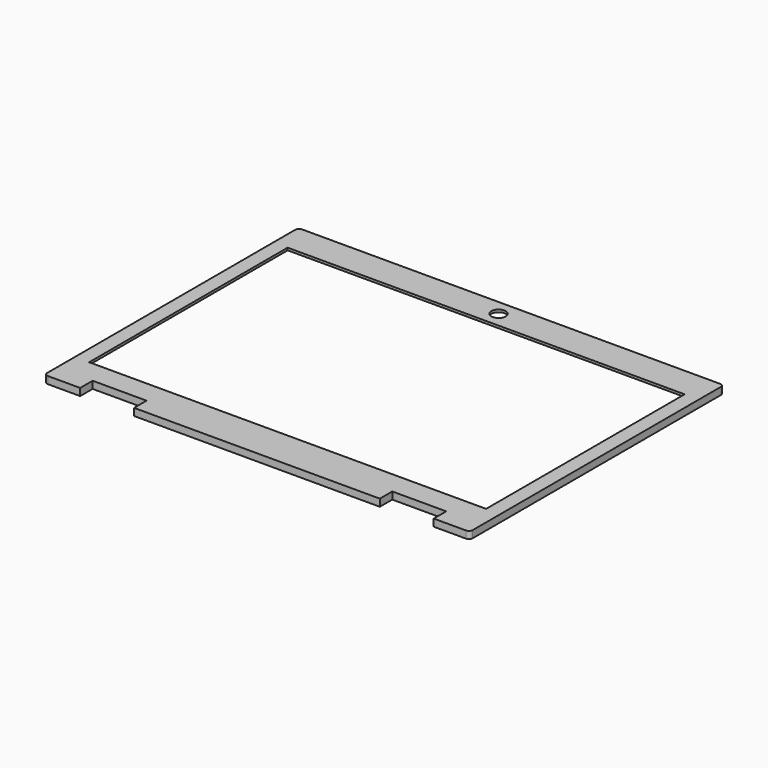
from build123d import *

# Parameters (mm, degrees)
F0_W     = 331.2
F0_H     = 207
F0_R     = 6
F1_DEPTH = 2
F2_R     = 2.5
F2_R_2   = 1.5
F3_DEPTH = 5
F5_DEPTH = 4


with BuildPart() as f1:
    # F0 (on Top) → F1 (new body)
    with BuildSketch(Plane.XY):
        with BuildLine():
            ThreePointArc((177.5, 129.5), (176.62132, 131.62132), (174.5, 132.5))
            Line((174.5, 132.5), (-174.5, 132.5))
            ThreePointArc((-174.5, 132.5), (-176.62132, 131.62132), (-177.5, 129.5))
            Line((-177.5, 129.5), (-177.5, -129.5))
            ThreePointArc((-177.5, -129.5), (-176.62132, -131.62132), (-174.5, -132.5))
            Line((-174.5, -132.5), (-147.5, -132.5))
            Line((-147.5, -132.5), (-147.5, -119.5))
            Line((-147.5, -119.5), (-102.5, -119.5))
            Line((-102.5, -119.5), (-102.5, -132.5))
            Line((-102.5, -132.5), (102.5, -132.5))
            Line((102.5, -132.5), (102.5, -119.5))
            Line((102.5, -119.5), (147.5, -119.5))
            Line((147.5, -119.5), (147.5, -132.5))
            Line((147.5, -132.5), (174.5, -132.5))
            ThreePointArc((174.5, -132.5), (176.62132, -131.62132), (177.5, -129.5))
            Line((177.5, -129.5), (177.5, 129.5))
        make_face()
        with Locations((0, 3)):
            Rectangle(F0_W, F0_H, mode=Mode.SUBTRACT)
        with Locations((0, 119.5)):
            Circle(F0_R, mode=Mode.SUBTRACT)
    extrude(amount=F1_DEPTH)

    # F2 (on face) → F3 (join)
    with BuildSketch(Plane(origin=(0, 0, 0), x_dir=(1, 0, 0), z_dir=(0, 0, -1))):
        with Locations((-169.5, 117.5)):
            Circle(F2_R)
        with Locations((-169.5, 117.5)):
            Circle(F2_R_2, mode=Mode.SUBTRACT)
        with Locations((168, 117.5)):
            Circle(F2_R)
        with Locations((168, 117.5)):
            Circle(F2_R_2, mode=Mode.SUBTRACT)
        with Locations((-169.5, -127.5)):
            Circle(F2_R)
        with Locations((-169.5, -127.5)):
            Circle(F2_R_2, mode=Mode.SUBTRACT)
        with Locations((168, -127.5)):
            Circle(F2_R)
        with Locations((168, -127.5)):
            Circle(F2_R_2, mode=Mode.SUBTRACT)
    extrude(amount=F3_DEPTH)

    # F4 (on face) → F5 (join)
    with BuildSketch(Plane(origin=(0, 0, 0), x_dir=(1, 0, 0), z_dir=(0, 0, -1))):
        with BuildLine():
            ThreePointArc((-177.5, -129.5), (-176.62132, -131.62132), (-174.5, -132.5))
            Line((-174.5, -132.5), (174.5, -132.5))
            ThreePointArc((174.5, -132.5), (176.62132, -131.62132), (177.5, -129.5))
            Line((177.5, -129.5), (177.5, 129.5))
            ThreePointArc((177.5, 129.5), (176.62132, 131.62132), (174.5, 132.5))
            Line((174.5, 132.5), (147.5, 132.5))
            Line((147.5, 132.5), (147.5, 119.5))
            Line((147.5, 119.5), (102.5, 119.5))
            Line((102.5, 119.5), (102.5, 132.5))
            Line((102.5, 132.5), (-102.5, 132.5))
            Line((-102.5, 132.5), (-102.5, 119.5))
            Line((-102.5, 119.5), (-147.5, 119.5))
            Line((-147.5, 119.5), (-147.5, 132.5))
            Line((-147.5, 132.5), (-174.5, 132.5))
            ThreePointArc((-174.5, 132.5), (-176.62132, 131.62132), (-177.5, 129.5))
            Line((-177.5, 129.5), (-177.5, -129.5))
        make_face()
        with BuildLine():
            ThreePointArc((-174.5, -131.5), (-175.914214, -130.914214), (-176.5, -129.5))
            Line((-176.5, -129.5), (-176.5, 129.5))
            ThreePointArc((-176.5, 129.5), (-175.914214, 130.914214), (-174.5, 131.5))
            Line((-174.5, 131.5), (-148.5, 131.5))
            Line((-148.5, 131.5), (-148.5, 118.5))
            Line((-148.5, 118.5), (-101.5, 118.5))
            Line((-101.5, 118.5), (-101.5, 131.5))
            Line((-101.5, 131.5), (101.5, 131.5))
            Line((101.5, 131.5), (101.5, 118.5))
            Line((101.5, 118.5), (148.5, 118.5))
            Line((148.5, 118.5), (148.5, 131.5))
            Line((148.5, 131.5), (174.5, 131.5))
            ThreePointArc((174.5, 131.5), (175.914214, 130.914214), (176.5, 129.5))
            Line((176.5, 129.5), (176.5, -129.5))
            ThreePointArc((176.5, -129.5), (175.914214, -130.914214), (174.5, -131.5))
            Line((174.5, -131.5), (-174.5, -131.5))
        make_face(mode=Mode.SUBTRACT)
    extrude(amount=F5_DEPTH)


solid = f1.part
